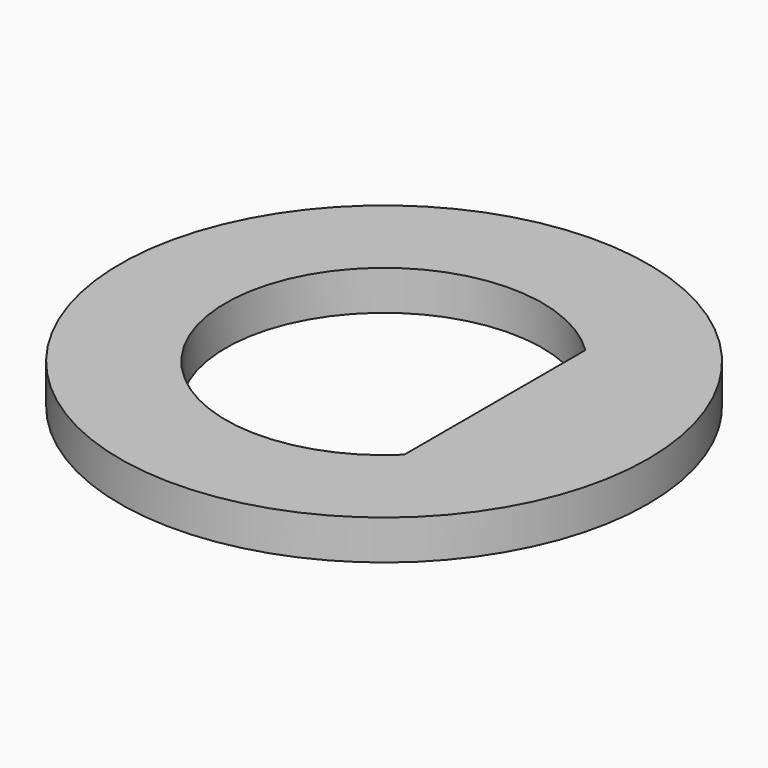
from build123d import *

# Parameters (mm, degrees)
F0_R     = 5
F1_DEPTH = 0.75
F3_DEPTH = 0.751


with BuildPart() as f1:
    # F0 (on Top) → F1 (new body)
    with BuildSketch(Plane.XY):
        Circle(F0_R)
    extrude(amount=-F1_DEPTH)

    # F2 (on Top) → F3 (cut, through all)
    with BuildSketch(Plane.XY):
        with BuildLine():
            Line((2.098345, -2.14405), (2.098345, 2.14405))
            ThreePointArc((2.098345, 2.14405), (-3, 0), (2.098345, -2.14405))
        make_face()
    extrude(amount=-F3_DEPTH, mode=Mode.SUBTRACT)


solid = f1.part
